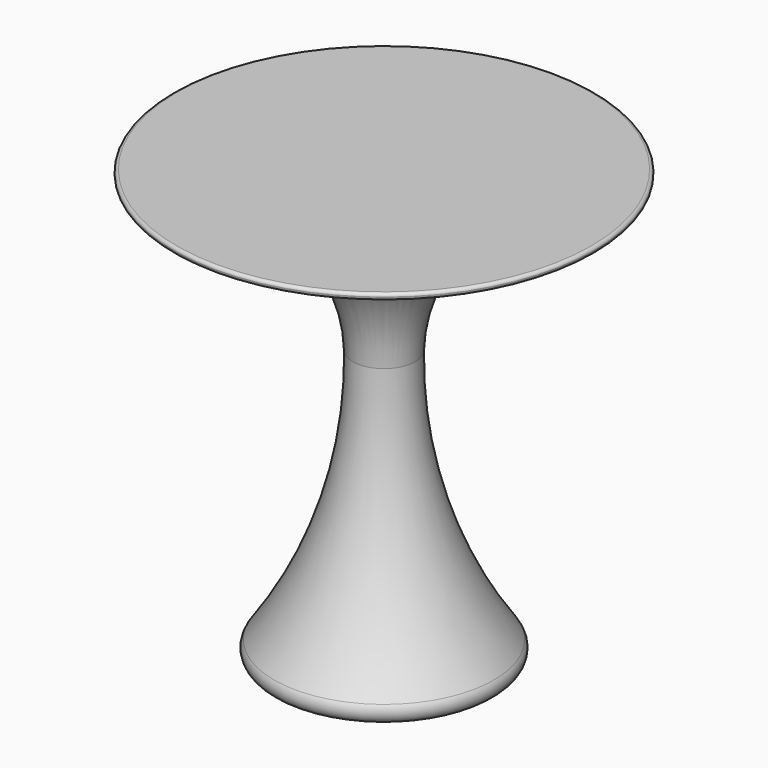
from build123d import *


with BuildPart() as f3:
    # F1 (on Front) → F3 (revolve)
    with BuildSketch(Plane.XZ):
        with BuildLine():
            Line((350, 0), (350, 690))
            Line((350, 690), (120, 690))
            ThreePointArc((120, 690), (247.32447, 601.528747), (298, 455))
            ThreePointArc((298, 455), (266.457297, 232.815507), (167.146042, 31.573947))
            ThreePointArc((167.146042, 31.573947), (165.68783, 10.820646), (183.456889, 0))
            Line((183.456889, 0), (350, 0))
        make_face()
    revolve(axis=Axis((350, 0, 345), (0, 0, 1)))


with BuildPart() as f5:
    # F4 (on Front) → F5 (revolve)
    with BuildSketch(Plane.XZ):
        with BuildLine():
            Line((350, 692), (350, 720))
            Line((350, 720), (5, 720))
            ThreePointArc((5, 720), (1.464466, 718.535534), (0, 715))
            Line((0, 715), (0, 714.417179))
            ThreePointArc((0, 714.417179), (1.250546, 711.109371), (4.376637, 709.456189))
            ThreePointArc((4.376637, 709.456189), (58.825956, 701.661576), (112.975178, 692))
            Line((112.975178, 692), (350, 692))
        make_face()
    revolve(axis=Axis((350, 0, 706), (0, 0, -1)))


solid = Compound([f3.part, f5.part])
